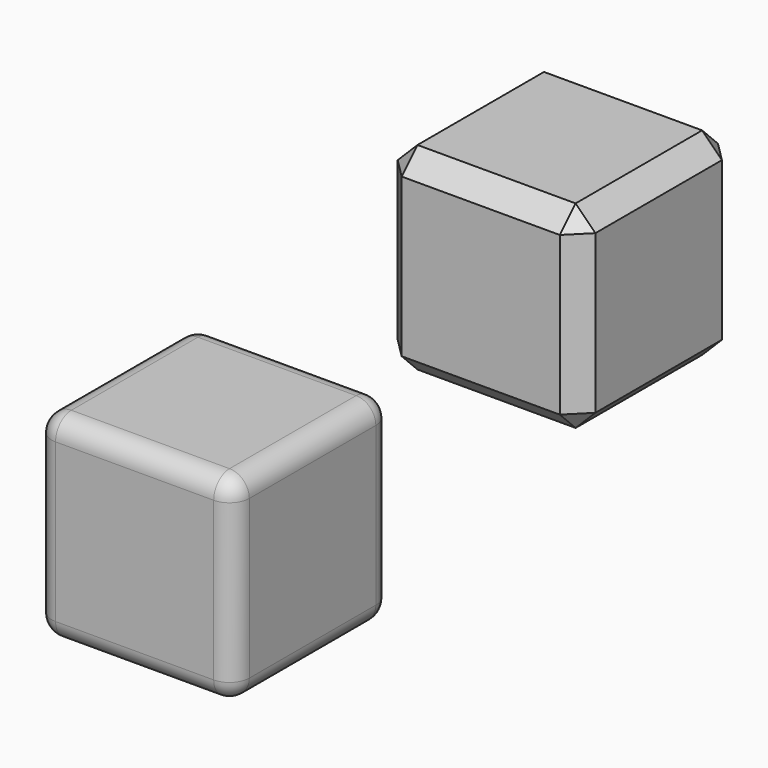
from build123d import *

# Parameters (mm, degrees)
F1_DEPTH = 25.4
F2_R     = 5.08
F3_SIZE  = 5.08


with BuildPart() as f1:
    # F0 (on Front) → F1 (new body, symmetric)
    with BuildSketch(Plane.XZ):
        Polygon((63.531456, 114.331456), (63.531456, 107.981456), (63.531456, 69.881456), (63.531456, 63.531456), (114.331456, 63.531456), (114.331456, 114.331456), align=None)
        Polygon((-19.05, 25.4), (-25.4, 25.4), (-25.4, -25.4), (25.4, -25.4), (25.4, 25.4), (19.05, 25.4), align=None)
    extrude(amount=F1_DEPTH, both=True)

    # F2
    f2_edges = [f1.edges().sort_by_distance(p)[0] for p in [
        (0, -25.4, 25.4),
        (25.4, -25.4, 0),
        (25.4, 0, 25.4),
        (-25.4, 0, 25.4),
        (-25.4, -25.4, 0),
        (0, -25.4, -25.4),
        (25.4, 0, -25.4),
        (25.4, 25.4, 0),
        (-25.4, 25.4, 0),
        (-25.4, 0, -25.4),
        (0, 25.4, -25.4),
        (0, 25.4, 25.4),
    ]]
    fillet(f2_edges, radius=F2_R)

    # F3
    f3_edges = [f1.edges().sort_by_distance(p)[0] for p in [
        (63.531456, 25.4, 88.931456),
        (88.931456, 25.4, 63.531456),
        (114.331456, 25.4, 88.931456),
        (88.931456, 25.4, 114.331456),
        (63.531456, 0, 114.331456),
        (114.331456, 0, 114.331456),
        (114.331456, -25.4, 88.931456),
        (114.331456, 0, 63.531456),
        (63.531456, -25.4, 88.931456),
        (88.931456, -25.4, 63.531456),
        (88.931456, -25.4, 114.331456),
        (63.531456, 0, 63.531456),
    ]]
    chamfer(f3_edges, length=F3_SIZE)


solid = f1.part
